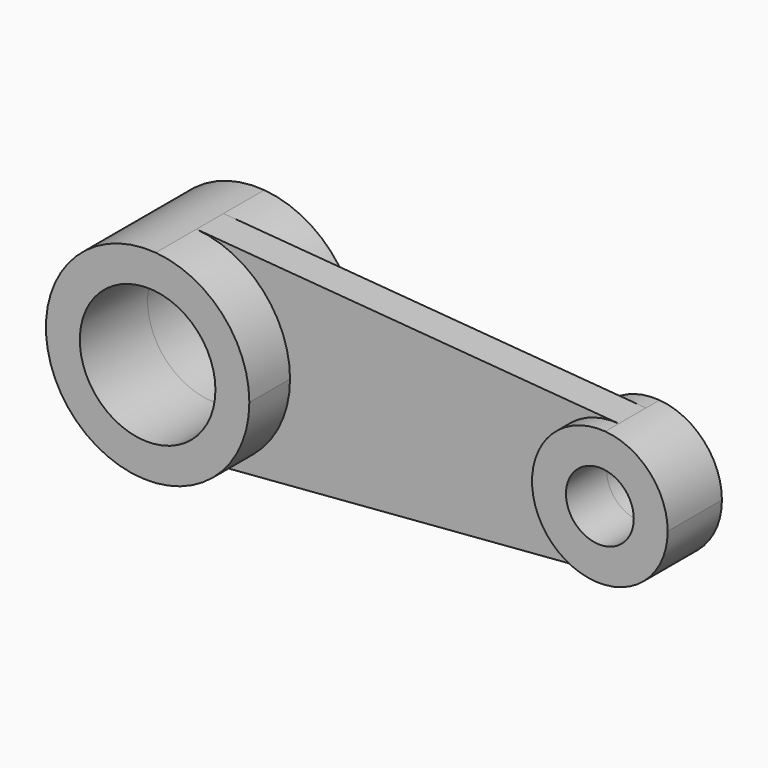
from build123d import *

# Parameters (mm, degrees)
F1_DEPTH = 10
F0_R     = 20
F2_DEPTH = 25
F3_DEPTH = 15
F0_R_2   = 10
F4_DEPTH = 15
F5_DEPTH = 5


with BuildPart() as f1:
    # F0 (on Front) → F1 (new body)
    with BuildSketch(Plane.XZ):
        with BuildLine():
            ThreePointArc((-77.264525, 29.904412), (-57.614458, 20.349593), (-49.657463, 0))
            ThreePointArc((-49.657463, 0), (-57.614458, -20.349593), (-77.264525, -29.904412))
            Line((-77.264525, -29.904412), (47.306721, -19.936275))
            ThreePointArc((47.306721, -19.936275), (25.711429, 0), (47.306721, 19.936275))
            Line((47.306721, 19.936275), (-77.264525, 29.904412))
        make_face()
    extrude(amount=F1_DEPTH)

    # F0 (on Front) → F2 (join)
    with BuildSketch(Plane.XZ):
        with BuildLine():
            ThreePointArc((-77.264525, -29.904412), (-57.614458, -20.349593), (-49.657463, 0))
            ThreePointArc((-49.657463, 0), (-57.614458, 20.349593), (-77.264525, 29.904412))
            ThreePointArc((-77.264525, 29.904412), (-109.657463, 0), (-77.264525, -29.904412))
        make_face()
        with Locations((-79.657463, 0)):
            Circle(F0_R, mode=Mode.SUBTRACT)
    extrude(amount=F2_DEPTH)

    # F0 (on Front) → F3 (join)
    with BuildSketch(Plane.XZ):
        with BuildLine():
            ThreePointArc((-77.264525, -29.904412), (-57.614458, -20.349593), (-49.657463, 0))
            ThreePointArc((-49.657463, 0), (-57.614458, 20.349593), (-77.264525, 29.904412))
            ThreePointArc((-77.264525, 29.904412), (-109.657463, 0), (-77.264525, -29.904412))
        make_face()
        with Locations((-79.657463, 0)):
            Circle(F0_R, mode=Mode.SUBTRACT)
    extrude(amount=-F3_DEPTH)

    # F0 (on Front) → F4 (join)
    with BuildSketch(Plane.XZ):
        with BuildLine():
            ThreePointArc((65.711429, 0), (60.406766, 13.566395), (47.306721, 19.936275))
            ThreePointArc((47.306721, 19.936275), (25.711429, 0), (47.306721, -19.936275))
            ThreePointArc((47.306721, -19.936275), (60.406766, -13.566395), (65.711429, 0))
        make_face()
        with Locations((45.711429, 0)):
            Circle(F0_R_2, mode=Mode.SUBTRACT)
    extrude(amount=F4_DEPTH)

    # F0 (on Front) → F5 (join)
    with BuildSketch(Plane.XZ):
        with BuildLine():
            ThreePointArc((65.711429, 0), (60.406766, 13.566395), (47.306721, 19.936275))
            ThreePointArc((47.306721, 19.936275), (25.711429, 0), (47.306721, -19.936275))
            ThreePointArc((47.306721, -19.936275), (60.406766, -13.566395), (65.711429, 0))
        make_face()
        with Locations((45.711429, 0)):
            Circle(F0_R_2, mode=Mode.SUBTRACT)
    extrude(amount=-F5_DEPTH)


solid = f1.part
